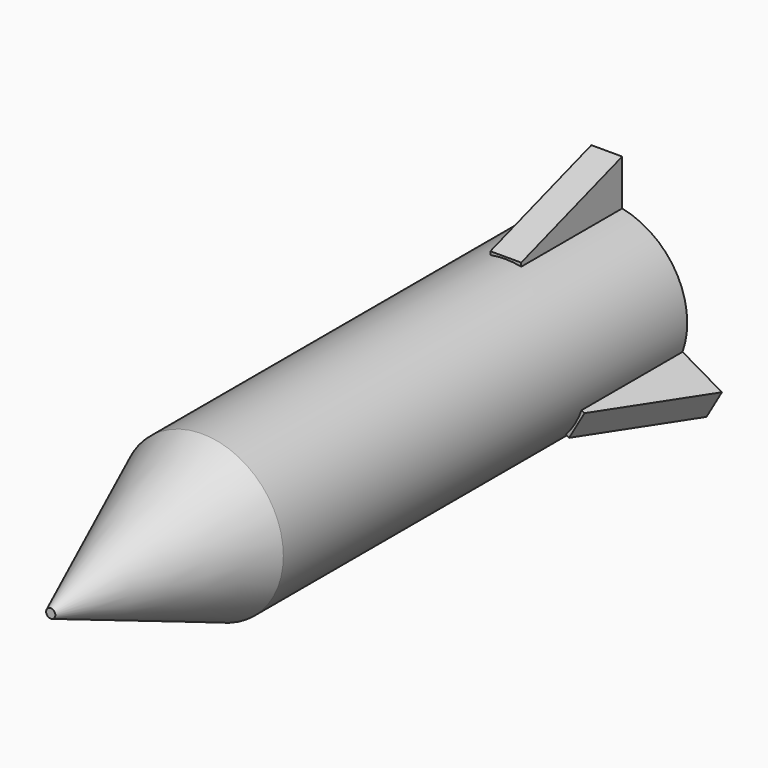
from build123d import *

# Parameters (mm, degrees)
F0_R     = 16.327253737
F0_R_2   = 12.7
F1_DEPTH = 101.6
F2_R     = 16.327253737
F3_DEPTH = 38.1
F3_TAPER = 22
F4_W     = 6.20650989
F4_H     = 11.6034736857
F5_DEPTH = 25.4
F7_DEPTH = 12.7
F8_COUNT = 3
F8_ANGLE = 240


with BuildPart() as f1:
    # F0 (on Front) → F1 (new body)
    with BuildSketch(Plane.XZ):
        Circle(F0_R)
        Circle(F0_R_2, mode=Mode.SUBTRACT)
    extrude(amount=F1_DEPTH)

    # F2 (on face) → F3 (join)
    with BuildSketch(Plane.XZ.offset(101.6)):
        Circle(F2_R)
    extrude(amount=F3_DEPTH, taper=F3_TAPER)

    # F4 (on Front) → F5 (join)
    with BuildSketch(Plane.XZ):
        with Locations((0.1349233789, 19.4290732034)):
            Rectangle(F4_W, F4_H)
    extrude(amount=F5_DEPTH)

    # F6 (on Right) → F7 (cut, symmetric)
    with BuildSketch(Plane.YZ):
        Polygon((25.9975232184, 33.8659547269), (-25.5434866995, 34.4056524336), (-25.8133374155, 16.5956672281), align=None)
    extrude(amount=F7_DEPTH, both=True, mode=Mode.SUBTRACT)

    # F8: F1 ×3 about axis
    f8_axis = Axis((0, 0, 0), (0, -1, 0))


with BuildPart() as f1_1:
    add(f1.part)
    for i in range(1, F8_COUNT):
        add(f1.part.rotate(f8_axis, i * F8_ANGLE / (F8_COUNT - 1)))


solid = f1_1.part
